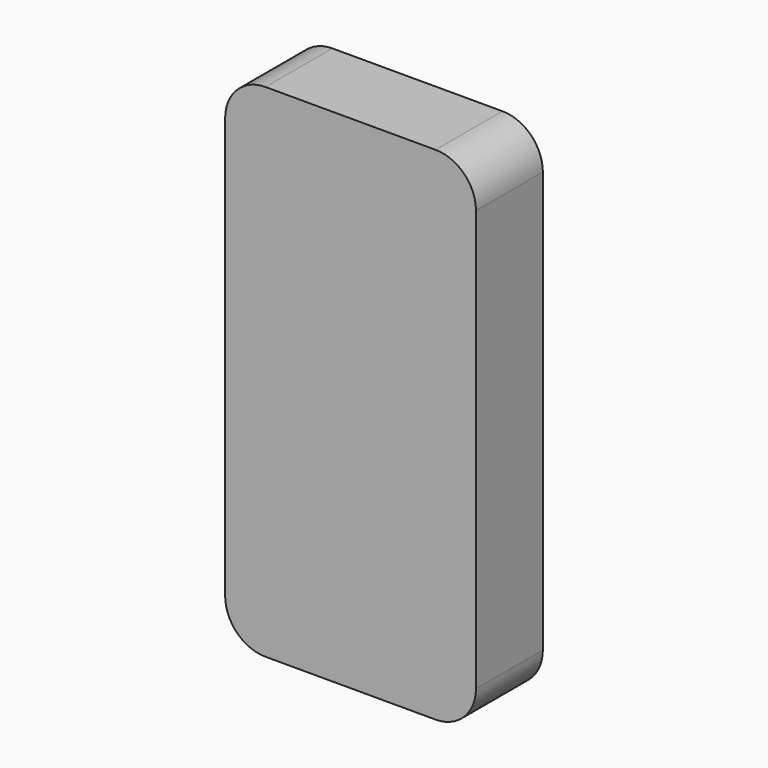
from build123d import *

# Parameters (mm, degrees)
F0_W     = 76.2
F0_H     = 152.4
F1_DEPTH = 12.7
F2_R     = 12.264205


with BuildPart() as f1:
    # F0 (on Front) → F1 (new body, symmetric)
    with BuildSketch(Plane.XZ):
        with Locations((1.24691, 19.498851)):
            Rectangle(F0_W, F0_H)
    extrude(amount=F1_DEPTH, both=True)

    # F2
    f2_edges = [f1.edges().sort_by_distance(p)[0] for p in [
        (-36.85309, 0, 95.698851),
        (39.34691, 0, 95.698851),
        (-36.85309, 0, -56.701149),
        (39.34691, 0, -56.701149),
    ]]
    fillet(f2_edges, radius=F2_R)


solid = f1.part
